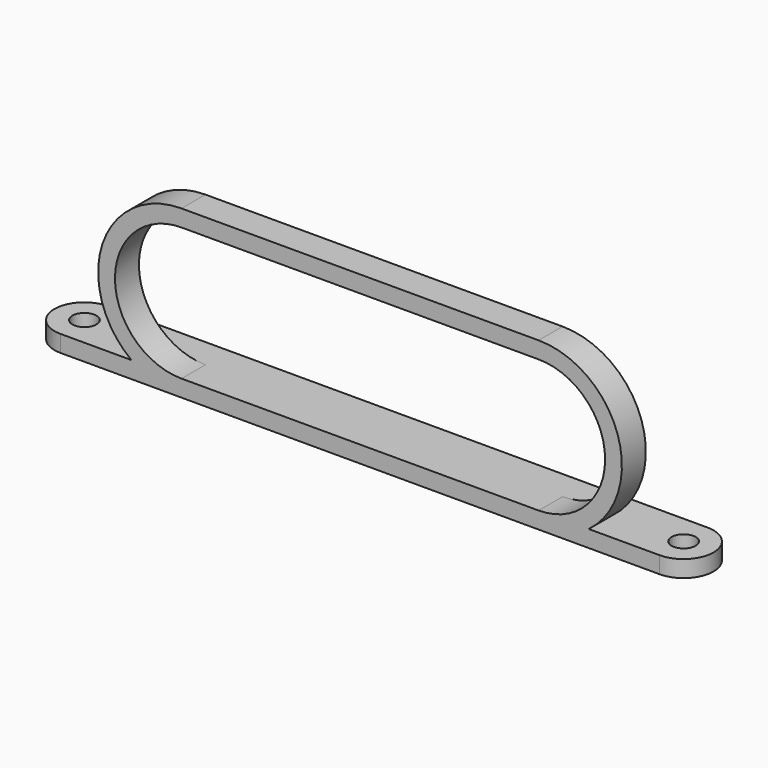
from build123d import *

# Parameters (mm, degrees)
F1_DEPTH = 5
F2_W     = 120
F2_H     = 2.8
F3_DEPTH = 10
F4_R     = 2.005
F5_DEPTH = 2.801
F7_DEPTH = 2.801


with BuildPart() as f1:
    # F0 (on Front) → F1 (new body)
    with BuildSketch(Plane.XZ):
        with BuildLine():
            Line((-29.8, -13.9), (29.8, -13.9))
            ThreePointArc((29.8, -13.9), (43.7, 0), (29.8, 13.9))
            Line((29.8, 13.9), (-29.8, 13.9))
            ThreePointArc((-29.8, 13.9), (-43.7, 0), (-29.8, -13.9))
        make_face()
        with BuildLine():
            ThreePointArc((29.8, 11.1), (40.9, 0), (29.8, -11.1))
            Line((29.8, -11.1), (-29.8, -11.1))
            ThreePointArc((-29.8, -11.1), (-40.9, 0), (-29.8, 11.1))
            Line((-29.8, 11.1), (29.8, 11.1))
        make_face(mode=Mode.SUBTRACT)
    extrude(amount=F1_DEPTH)

    # F2 (on face) → F3 (join)
    with BuildSketch(Plane.XZ.offset(5)):
        with Locations((0, -12.5)):
            Rectangle(F2_W, F2_H)
    extrude(amount=-F3_DEPTH)

    # F4 (on face) → F5 (cut, through all)
    with BuildSketch(Plane.XY.offset(-11.1)):
        with Locations((50, 0)):
            Circle(F4_R)
        with Locations((-50, 0)):
            Circle(F4_R)
    extrude(amount=-F5_DEPTH, mode=Mode.SUBTRACT)

    # F6 (on face) → F7 (cut, through all)
    with BuildSketch(Plane.XY.offset(-11.1)):
        with BuildLine():
            ThreePointArc((-50, -5), (-55, 0), (-50, 5))
            Line((-50, 5), (-60, 5))
            Line((-60, 5), (-60, -5))
            Line((-60, -5), (-50, -5))
        make_face()
        with BuildLine():
            Line((60, 5), (50, 5))
            ThreePointArc((50, 5), (55, 0), (50, -5))
            Line((50, -5), (60, -5))
            Line((60, -5), (60, 5))
        make_face()
    extrude(amount=-F7_DEPTH, mode=Mode.SUBTRACT)


solid = f1.part
